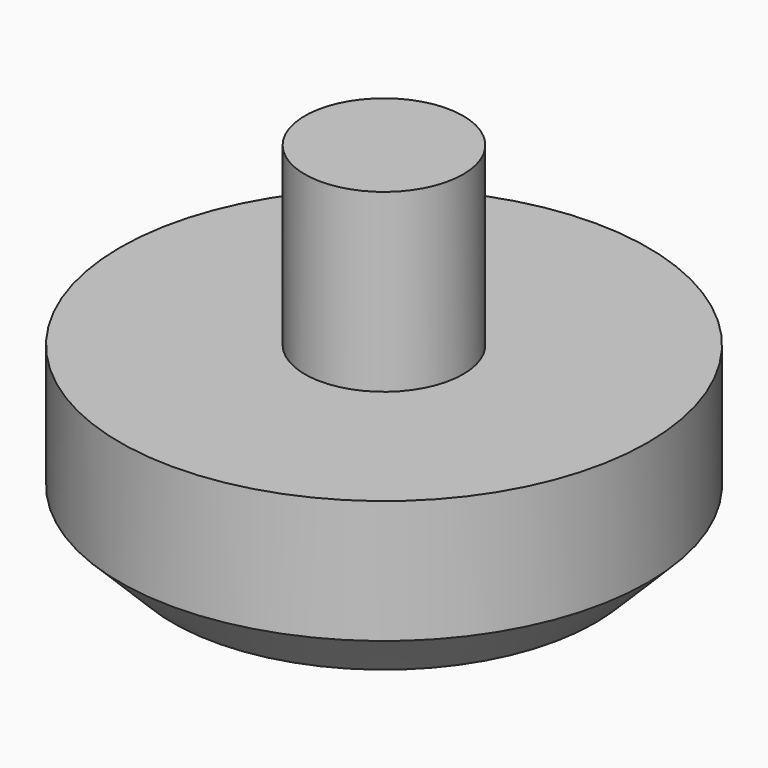
from build123d import *

# Parameters (mm, degrees)
F0_R     = 3.81
F1_DEPTH = 2.54
F2_R     = 1.143
F3_DEPTH = 2.54
F5_D     = 1.27
F5_DEPTH = 2.54
F5_TIP   = 0.3815464931
F6_SIZE  = 0.762


with BuildPart() as f1:
    # F0 (on Top) → F1 (new body)
    with BuildSketch(Plane.XY):
        Circle(F0_R)
    extrude(amount=F1_DEPTH)

    # F2 (on face) → F3 (join)
    with BuildSketch(Plane.XY.offset(2.54)):
        Circle(F2_R)
    extrude(amount=F3_DEPTH)

    # F5
    with Locations(Plane(origin=(0, 0, 0), x_dir=(1, 0, 0), z_dir=(0, 0, -1))):
        with Locations((0, 0)):
            Hole(F5_D / 2, depth=F5_DEPTH)
            with Locations((0, 0, -(F5_DEPTH + F5_TIP / 2))):  # 118° drill point
                Cone(0, F5_D / 2, F5_TIP, mode=Mode.SUBTRACT)

    # F6
    f6_edges = [f1.edges().sort_by_distance(p)[0] for p in [
        (-3.81, 0, 0),
    ]]
    chamfer(f6_edges, length=F6_SIZE)


solid = f1.part
